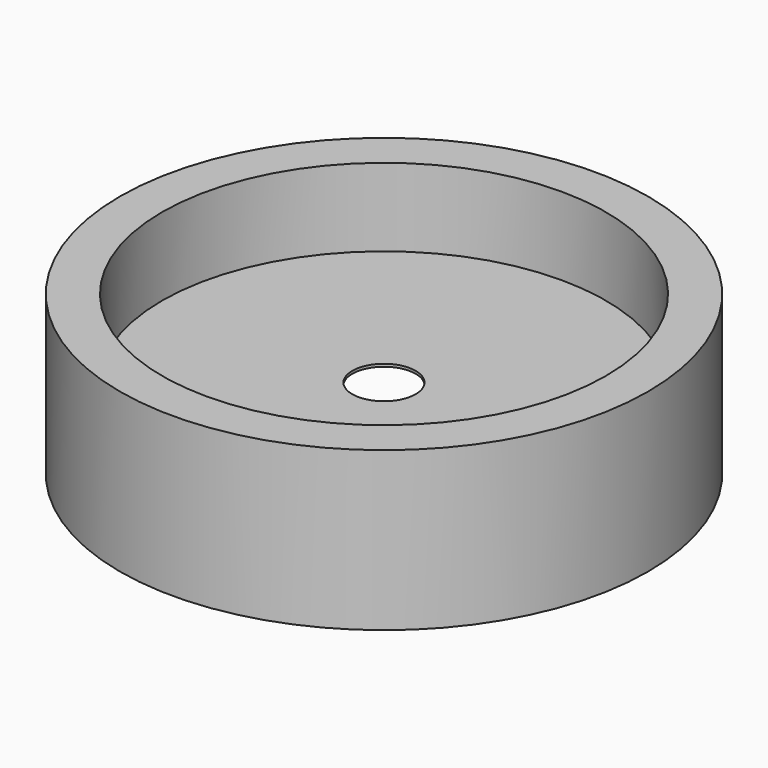
from build123d import *

# Parameters (mm, degrees)
F2_R     = 76.2
F3_DEPTH = 6.35


with BuildPart() as f1:
    # F0 (on Front) → F1 (revolve)
    with BuildSketch(Plane.XZ):
        Polygon((0, -3.175), (533.4, -3.175), (533.4, -190.5), (635, -190.5), (635, 190.5), (533.4, 190.5), (533.4, 3.175), (0, 3.175), (0, 0), align=None)
    revolve(axis=Axis((0, 0, -1.5875), (0, 0, 1)))

    # F2 (on face) → F3 (cut, through all)
    with BuildSketch(Plane.XY.offset(3.175)):
        Circle(F2_R)
    extrude(amount=-F3_DEPTH, mode=Mode.SUBTRACT)


solid = f1.part
